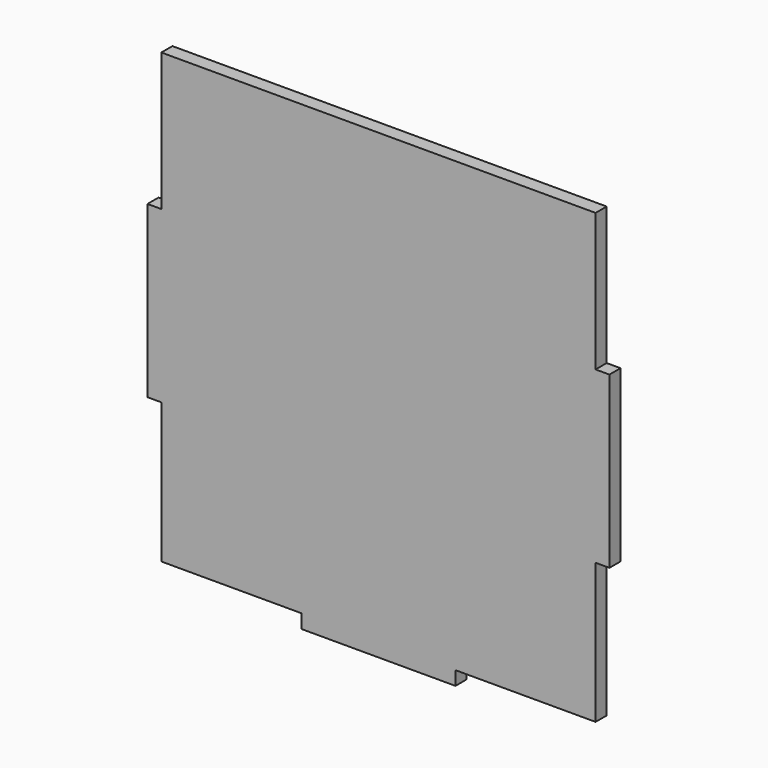
from build123d import *

# Parameters (mm, degrees)
F5_DEPTH = 9
F6_DEPTH = 9


with BuildPart() as f5:
    # F4 (on Front) → F5 (new body)
    with BuildSketch(Plane.XZ):
        Polygon((50, -130.5), (141, -130.5), (141, -39.5), (150, -39.5), (150, 60.5), (141, 60.5), (141, 130.5), (-141, 130.5), (-141, 60.5), (-150, 60.5), (-150, -39.5), (-141, -39.5), (-141, -130.5), (-50, -130.5), (-50, -139.5), (50, -139.5), align=None)
    extrude(amount=F5_DEPTH)

    # F1 (on face) → F6 (join)
    with BuildSketch(Plane.XZ):
        Polygon((141, 50), (141, 150), (-141, 150), (-141, 50), (-150, 50), (-150, -50), (-141, -50), (-141, -141), (-50, -141), (-50, -150), (50, -150), (50, -141), (141, -141), (141, -50), (150, -50), (150, 50), align=None)
    extrude(amount=F6_DEPTH)


solid = f5.part
